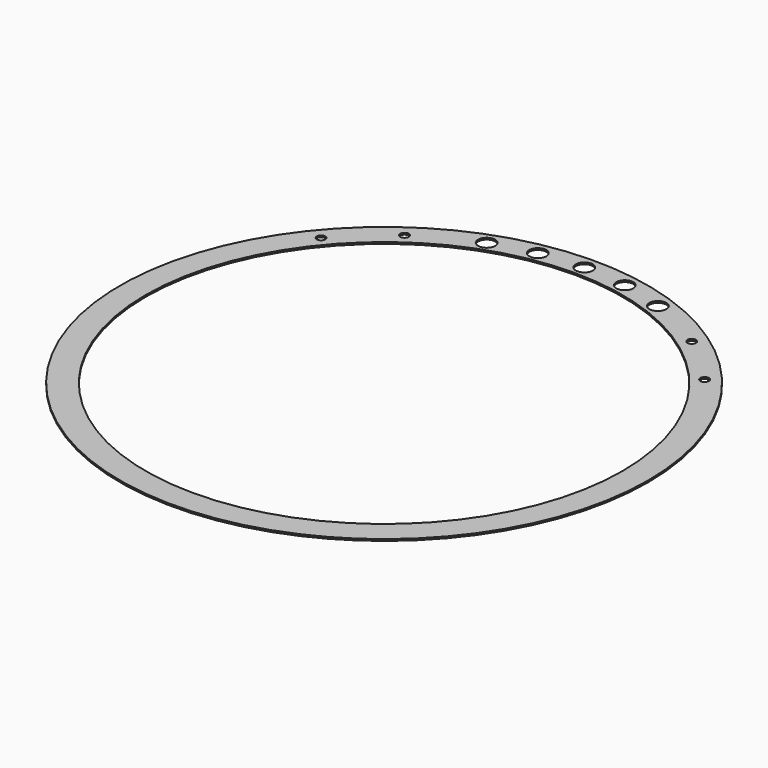
from build123d import *

# Parameters (mm, degrees)
F0_R     = 155
F0_R_2   = 2.5
F0_R_3   = 5
F0_R_4   = 140
F1_DEPTH = 1


with BuildPart() as f1:
    # F0 (on Top) → F1 (new body)
    with BuildSketch(Plane.XY):
        Circle(F0_R)
        with Locations((-112.608533, 94.489779)):
            Circle(F0_R_2, mode=Mode.SUBTRACT)
        with Locations((-84.315736, 120.415351)):
            Circle(F0_R_2, mode=Mode.SUBTRACT)
        with Locations((-50.276961, 138.134815)):
            Circle(F0_R_3, mode=Mode.SUBTRACT)
        with Locations((-25.526282, 144.76674)):
            Circle(F0_R_3, mode=Mode.SUBTRACT)
        Circle(F0_R_4, mode=Mode.SUBTRACT)
        with Locations((0, 147)):
            Circle(F0_R_3, mode=Mode.SUBTRACT)
        with Locations((25.526282, 144.76674)):
            Circle(F0_R_3, mode=Mode.SUBTRACT)
        with Locations((50.276961, 138.134815)):
            Circle(F0_R_3, mode=Mode.SUBTRACT)
        with Locations((112.608533, 94.489779)):
            Circle(F0_R_2, mode=Mode.SUBTRACT)
        with Locations((84.315736, 120.415351)):
            Circle(F0_R_2, mode=Mode.SUBTRACT)
    extrude(amount=F1_DEPTH)


solid = f1.part
